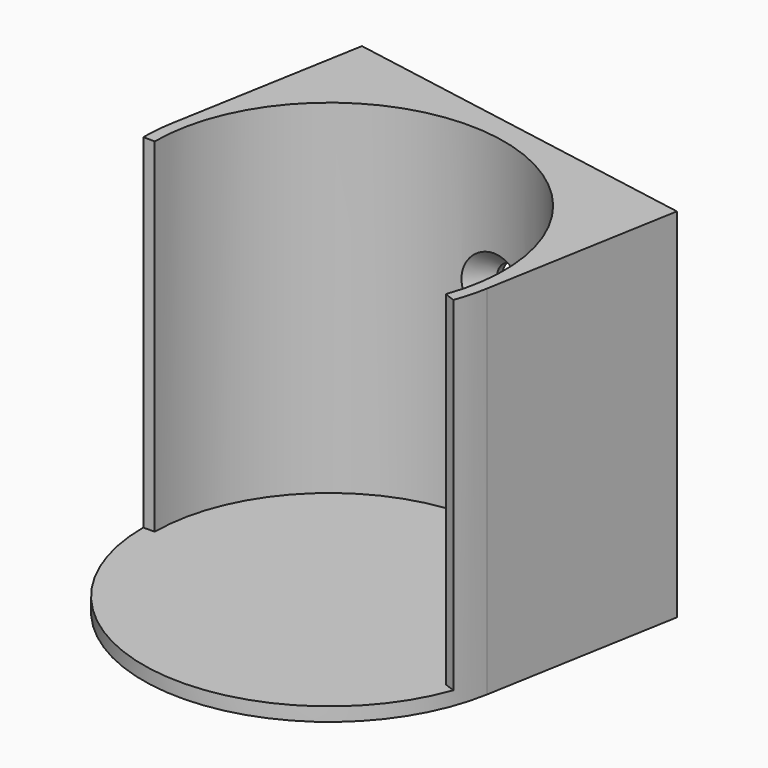
from build123d import *

# Parameters (mm, degrees)
SKETCH_R         = 16.25
PAD_DEPTH        = 1.2
SKETCH001_W      = 1
SKETCH001_H      = 30
REVOLUTION_ANGLE = -200
PAD001_DEPTH     = 31.2
PAD002_DEPTH     = 10
HOLE_D           = 3.5
HOLE_DEPTH       = 5.85
HOLE_CSINK_D     = 7
HOLE_CSINK_ANGLE = 80
POCKET_DEPTH     = 10


with BuildPart() as part:
    # Sketch → Pad (new body)
    with BuildSketch(Plane.XY):
        Circle(SKETCH_R)
    extrude(amount=PAD_DEPTH)

    # Sketch001 → Revolution (revolve)
    with BuildSketch(Plane.XZ):
        with Locations((-15.75, 16.2)):
            Rectangle(SKETCH001_W, SKETCH001_H)
    revolve(axis=Axis((0, 0, 0), (0, 0, 1)), revolution_arc=REVOLUTION_ANGLE)

    # Sketch002 (on Face2 of Revolution) → Pad001 (join)
    with BuildSketch(Plane(origin=(0, 0, 0), x_dir=(1, 0, 0), z_dir=(0, 0, -1))):
        with BuildLine():
            Line((-16.0031258461, -2.8217836832), (-13.0076949217, -19.8097166265))
            Line((-13.0076949217, -19.8097166265), (18.9985570512, -14.1661508524))
            Line((18.9985570512, -14.1661508524), (16.0031261337, 2.8217820519))
            ThreePointArc((-16.0031258461, -2.8217836832), (2.8217828675, -16.0031259899), (16.0031261337, 2.8217820519))
        make_face()
    extrude(amount=-PAD001_DEPTH)

    # Sketch003 (on Face12 of Pad001) → Pad002 (join)
    with BuildSketch(Plane.XY.offset(31.2)):
        Polygon((-13.0076949217, 19.8097166265), (-13.4594399549, 17.2477432325), (18.546812018, 11.6041774583), (18.9985570512, 14.1661508524), align=None)
    extrude(amount=PAD002_DEPTH)

    # Hole
    with Locations(Plane(origin=(2.5436860315, 14.4259603454, 0), x_dir=(0.984807753, -0.1736481777, 0), z_dir=(-0.1736481777, -0.984807753, 0))):
        with Locations((0, 19.2)):
            CounterSinkHole(HOLE_D / 2, HOLE_CSINK_D / 2, depth=HOLE_DEPTH, counter_sink_angle=HOLE_CSINK_ANGLE)

    # Sketch005 (on Face22 of Hole) → Pocket (cut)
    with BuildSketch(Plane.XY.offset(41.2)):
        Polygon((-13.0076949217, 19.8097166265), (-13.4594399549, 17.2477432325), (18.546812018, 11.6041774583), (18.9985570512, 14.1661508524), align=None)
    extrude(amount=-POCKET_DEPTH, mode=Mode.SUBTRACT)


solid = part.part
